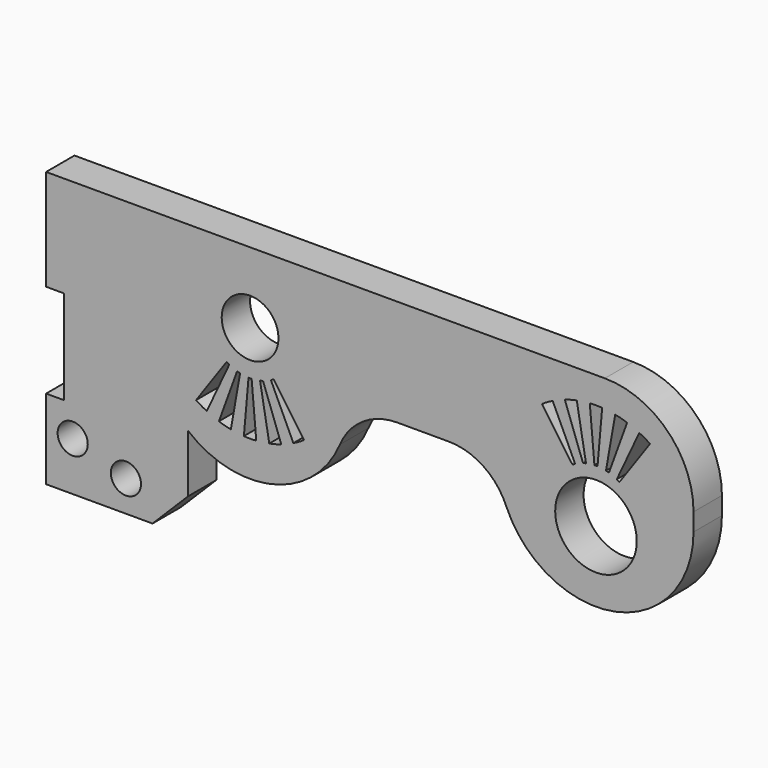
from build123d import *

# Parameters (mm, degrees)
BOX001027008_W            = 15
BOX001027008_H            = 24
BOX001027008_DEPTH        = 10.6
CYLINDER055_R             = 1.7
CYLINDER055_DEPTH         = 20
CYLINDER055_ROLL_ANGLE    = 90
CYLINDER054_R             = 1.7
CYLINDER054_DEPTH         = 20
CYLINDER054_ROLL_ANGLE    = 90
BOX001021_W               = 16
BOX001021_H               = 4
BOX001021_DEPTH           = 19
CHAMFER002_SIZE           = 4
BOX001023_W               = 14
BOX001023_H               = 9
BOX001023_DEPTH           = 22
BOX001015_W               = 13
BOX001015_H               = 10
BOX001015_DEPTH           = 2
BOX001015_PLACEMENT_ANGLE = 80
BOX001014_W               = 2
BOX001014_H               = 10
BOX001014_DEPTH           = 13
CYLINDER040_R             = 2
CYLINDER040_DEPTH         = 13
CYLINDER040_ROLL_ANGLE    = 90
CYLINDER041_R             = 8
CYLINDER041_DEPTH         = 8
CYLINDER041_ROLL_ANGLE    = 90
COMMON006_PLACEMENT_ANGLE = 25
COMMON005_PITCH_ANGLE     = -20
COMMON004_PITCH_ANGLE     = 10
COMMON007_PITCH_ANGLE     = -35
COMMON003_PITCH_ANGLE     = -5
FUSION061_PLACEMENT_ANGLE = 180
CYLINDER042_R             = 4.6
CYLINDER042_DEPTH         = 10
CYLINDER042_ROLL_ANGLE    = 90
CYLINDER039_R             = 3.2
CYLINDER039_DEPTH         = 10
CYLINDER039_ROLL_ANGLE    = 90
CYLINDER037_R             = 11
CYLINDER037_DEPTH         = 4
CYLINDER037_ROLL_ANGLE    = 90
CYLINDER038_R             = 11
CYLINDER038_DEPTH         = 4
CYLINDER038_ROLL_ANGLE    = 90
BOX001013_W               = 80
BOX001013_H               = 4
BOX001013_DEPTH           = 12
FILLET_R                  = 7
FILLET001_R               = 7
FILLET002_R               = 10
FILLET002_PLACEMENT_ANGLE = 180


with BuildPart() as cube028:
    # Box001027008 → Box001027008 (new body)
    with BuildSketch(Plane(origin=(-11, -13, -38), x_dir=(1, 0, 0), z_dir=(0, 0, 1))):
        with Locations((7.5, 12)):
            Rectangle(BOX001027008_W, BOX001027008_H)
    extrude(amount=BOX001027008_DEPTH)


with BuildPart() as cylinder055:
    # Cylinder055 → Cylinder055 (new body)
    with BuildSketch(Plane.XY):
        Circle(CYLINDER055_R)
    extrude(amount=CYLINDER055_DEPTH)


with BuildPart() as cylinder055_1:
    # Cylinder055 roll: moved
    add(cylinder055.part.rotate(Axis((0, 0, 0), (1, 0, 0)), CYLINDER055_ROLL_ANGLE))


with BuildPart() as cylinder055_2:
    # Cylinder055 placement: moved
    add(cylinder055_1.part.moved(Location((5, 10, -41.5))))


with BuildPart() as fusion075:
    # Cylinder054 → Cylinder054 (new body)
    with BuildSketch(Plane.XY):
        Circle(CYLINDER054_R)
    extrude(amount=CYLINDER054_DEPTH)


with BuildPart() as fusion075_1:
    # Cylinder054 roll: moved
    add(fusion075.part.rotate(Axis((0, 0, 0), (1, 0, 0)), CYLINDER054_ROLL_ANGLE))


with BuildPart() as fusion075_2:
    # Cylinder054 placement: moved
    add(fusion075_1.part.moved(Location((11, 10, -43.5))))

    # Fusion075: union Cylinder055
    add(cylinder055_2.part)


with BuildPart() as cut031:
    # Box001021 → Box001021 (new body)
    with BuildSketch(Plane(origin=(2, -2, -47), x_dir=(1, 0, 0), z_dir=(0, 0, 1))):
        with Locations((8, 2)):
            Rectangle(BOX001021_W, BOX001021_H)
    extrude(amount=BOX001021_DEPTH)

    # Chamfer002
    chamfer002_edges = [cut031.edges().sort_by_distance(p)[0] for p in [
        (18, 0, -47),
    ]]
    chamfer(chamfer002_edges, length=CHAMFER002_SIZE)

    # Cut031: cut Fusion075
    add(fusion075_2.part, mode=Mode.SUBTRACT)


with BuildPart() as cube021:
    # Box001023 → Box001023 (new body)
    with BuildSketch(Plane(origin=(-12, -4, -33), x_dir=(1, 0, 0), z_dir=(0, 0, 1))):
        with Locations((7, 4.5)):
            Rectangle(BOX001023_W, BOX001023_H)
    extrude(amount=BOX001023_DEPTH)


with BuildPart() as cube013:
    # Box001015 → Box001015 (new body)
    with BuildSketch(Plane.XY):
        with Locations((6.5, 5)):
            Rectangle(BOX001015_W, BOX001015_H)
    extrude(amount=BOX001015_DEPTH)


with BuildPart() as cube013_1:
    # Box001015 placement: moved
    add(cube013.part.moved(Location((0, -5, 0))).rotate(Axis((0, -5, 0), (0, -1, 0)), BOX001015_PLACEMENT_ANGLE))


with BuildPart() as common002:
    # Box001014 → Box001014 (new body)
    with BuildSketch(Plane(origin=(0, -5, 0), x_dir=(1, 0, 0), z_dir=(0, 0, 1))):
        with Locations((1, 5)):
            Rectangle(BOX001014_W, BOX001014_H)
    extrude(amount=BOX001014_DEPTH)

    # Common002: intersect Cube013
    add(cube013_1.part, mode=Mode.INTERSECT)


with BuildPart() as cylinder040:
    # Cylinder040 → Cylinder040 (new body)
    with BuildSketch(Plane.XY):
        Circle(CYLINDER040_R)
    extrude(amount=CYLINDER040_DEPTH)


with BuildPart() as cylinder040_1:
    # Cylinder040 roll: moved
    add(cylinder040.part.rotate(Axis((0, 0, 0), (1, 0, 0)), CYLINDER040_ROLL_ANGLE))


with BuildPart() as cylinder040_2:
    # Cylinder040 placement: moved
    add(cylinder040_1.part.moved(Location((0, 7, 0))))


with BuildPart() as cut010:
    # Cylinder041 → Cylinder041 (new body)
    with BuildSketch(Plane.XY):
        Circle(CYLINDER041_R)
    extrude(amount=CYLINDER041_DEPTH)


with BuildPart() as cut010_1:
    # Cylinder041 roll: moved
    add(cut010.part.rotate(Axis((0, 0, 0), (1, 0, 0)), CYLINDER041_ROLL_ANGLE))


with BuildPart() as cut010_2:
    # Cylinder041 placement: moved
    add(cut010_1.part.moved(Location((0, 4, 0))))

    # Cut010: cut Cylinder040
    add(cylinder040_2.part, mode=Mode.SUBTRACT)


with BuildPart() as common006:
    # Common006 base: copy of Cut010
    add(cut010_2.part)

    # Common006: intersect Common002
    add(common002.part, mode=Mode.INTERSECT)


with BuildPart() as common006_1:
    # Common006 placement: moved
    add(common006.part.moved(Location((51.5, 0, 10.598076))).rotate(Axis((51.5, 0, 10.598076), (0, 1, 0)), COMMON006_PLACEMENT_ANGLE))


with BuildPart() as common005:
    # Common005 base: copy of Cut010
    add(cut010_2.part)

    # Common005: intersect Common002
    add(common002.part, mode=Mode.INTERSECT)


with BuildPart() as common005_1:
    # Common005 pitch: moved
    add(common005.part.rotate(Axis((0, 0, 0), (0, 1, 0)), COMMON005_PITCH_ANGLE))


with BuildPart() as common005_2:
    # Common005 placement: moved
    add(common005_1.part.moved(Location((49.223543, 0, 10.897777))))


with BuildPart() as common004:
    # Common004 base: copy of Cut010
    add(cut010_2.part)

    # Common004: intersect Common002
    add(common002.part, mode=Mode.INTERSECT)


with BuildPart() as common004_1:
    # Common004 pitch: moved
    add(common004.part.rotate(Axis((0, 0, 0), (0, 1, 0)), COMMON004_PITCH_ANGLE))


with BuildPart() as common004_2:
    # Common004 placement: moved
    add(common004_1.part.moved(Location((50.776457, 0, 10.897777))))


with BuildPart() as common007:
    # Common007 base: copy of Cut010
    add(cut010_2.part)

    # Common007: intersect Common002
    add(common002.part, mode=Mode.INTERSECT)


with BuildPart() as common007_1:
    # Common007 pitch: moved
    add(common007.part.rotate(Axis((0, 0, 0), (0, 1, 0)), COMMON007_PITCH_ANGLE))


with BuildPart() as common007_2:
    # Common007 placement: moved
    add(common007_1.part.moved(Location((48.5, 0, 10.598076))))


with BuildPart() as common003:
    # Common003 base: copy of Cut010
    add(cut010_2.part)

    # Common003: intersect Common002
    add(common002.part, mode=Mode.INTERSECT)


with BuildPart() as common003_1:
    # Common003 pitch: moved
    add(common003.part.rotate(Axis((0, 0, 0), (0, 1, 0)), COMMON003_PITCH_ANGLE))


with BuildPart() as common003_2:
    # Common003 placement: moved
    add(common003_1.part.moved(Location((50, 0, 11))))


with BuildPart() as strength_slots001:
    # Fusion061 base: copy of Common003
    add(common003_2.part)

    # Fusion061: union Common006, Common005, Common004, Common007
    add(common006_1.part)
    add(common005_2.part)
    add(common004_2.part)
    add(common007_2.part)


with BuildPart() as strength_slots001_1:
    # Fusion061 placement: moved
    add(strength_slots001.part.moved(Location((61, 0, 22))).rotate(Axis((61, 0, 22), (0, 1, 0)), FUSION061_PLACEMENT_ANGLE))


with BuildPart() as cylinder042:
    # Cylinder042 → Cylinder042 (new body)
    with BuildSketch(Plane.XY):
        Circle(CYLINDER042_R)
    extrude(amount=CYLINDER042_DEPTH)


with BuildPart() as cylinder042_1:
    # Cylinder042 roll: moved
    add(cylinder042.part.rotate(Axis((0, 0, 0), (1, 0, 0)), CYLINDER042_ROLL_ANGLE))


with BuildPart() as cylinder042_2:
    # Cylinder042 placement: moved
    add(cylinder042_1.part.moved(Location((11, 5, 15))))


with BuildPart() as strength_slots:
    # Fusion060 base: copy of Common003
    add(common003_2.part)

    # Fusion060: union Common006, Common005, Common004, Common007
    add(common006_1.part)
    add(common005_2.part)
    add(common004_2.part)
    add(common007_2.part)


with BuildPart() as cylinder039:
    # Cylinder039 → Cylinder039 (new body)
    with BuildSketch(Plane.XY):
        Circle(CYLINDER039_R)
    extrude(amount=CYLINDER039_DEPTH)


with BuildPart() as cylinder039_1:
    # Cylinder039 roll: moved
    add(cylinder039.part.rotate(Axis((0, 0, 0), (1, 0, 0)), CYLINDER039_ROLL_ANGLE))


with BuildPart() as cylinder039_2:
    # Cylinder039 placement: moved
    add(cylinder039_1.part.moved(Location((50, 5, 8))))


with BuildPart() as cylinder037:
    # Cylinder037 → Cylinder037 (new body)
    with BuildSketch(Plane.XY):
        Circle(CYLINDER037_R)
    extrude(amount=CYLINDER037_DEPTH)


with BuildPart() as cylinder037_1:
    # Cylinder037 roll: moved
    add(cylinder037.part.rotate(Axis((0, 0, 0), (1, 0, 0)), CYLINDER037_ROLL_ANGLE))


with BuildPart() as cylinder037_2:
    # Cylinder037 placement: moved
    add(cylinder037_1.part.moved(Location((11, 2, 12))))


with BuildPart() as cylinder038:
    # Cylinder038 → Cylinder038 (new body)
    with BuildSketch(Plane.XY):
        Circle(CYLINDER038_R)
    extrude(amount=CYLINDER038_DEPTH)


with BuildPart() as cylinder038_1:
    # Cylinder038 roll: moved
    add(cylinder038.part.rotate(Axis((0, 0, 0), (1, 0, 0)), CYLINDER038_ROLL_ANGLE))


with BuildPart() as cylinder038_2:
    # Cylinder038 placement: moved
    add(cylinder038_1.part.moved(Location((50, 2, 12))))


with BuildPart() as cut_lever_x:
    # Box001013 → Box001013 (new body)
    with BuildSketch(Plane(origin=(0, -2, 0), x_dir=(1, 0, 0), z_dir=(0, 0, 1))):
        with Locations((40, 2)):
            Rectangle(BOX001013_W, BOX001013_H)
    extrude(amount=BOX001013_DEPTH)

    # Fusion059: union Cylinder037, Cylinder038
    add(cylinder037_2.part)
    add(cylinder038_2.part)

    # Fillet
    fillet_edges = [cut_lever_x.edges().sort_by_distance(p)[0] for p in [
        (22, 0, 12),
    ]]
    fillet(fillet_edges, radius=FILLET_R)

    # Fillet001
    fillet001_edges = [cut_lever_x.edges().sort_by_distance(p)[0] for p in [
        (39, 0, 12),
        (61, 0, 12),
    ]]
    fillet(fillet001_edges, radius=FILLET001_R)

    # Cut009: cut Cylinder039
    add(cylinder039_2.part, mode=Mode.SUBTRACT)

    # Cut011: cut strength-slots
    add(strength_slots.part, mode=Mode.SUBTRACT)

    # Cut012: cut Cylinder042
    add(cylinder042_2.part, mode=Mode.SUBTRACT)

    # Cut013: cut strength-slots001
    add(strength_slots001_1.part, mode=Mode.SUBTRACT)

    # Fillet002
    fillet002_edges = [cut_lever_x.edges().sort_by_distance(p)[0] for p in [
        (0, 0, 0),
    ]]
    fillet(fillet002_edges, radius=FILLET002_R)


with BuildPart() as cut_lever_x_1:
    # Fillet002 placement: moved
    add(cut_lever_x.part.moved(Location((75, 0, -16))).rotate(Axis((75, 0, -16), (0, 1, 0)), FILLET002_PLACEMENT_ANGLE))

    # Cut021: cut Cube021
    add(cube021.part, mode=Mode.SUBTRACT)

    # Fusion076: union Cut031
    add(cut031.part)

    # Cut039: cut Cube028
    add(cube028.part, mode=Mode.SUBTRACT)


solid = cut_lever_x_1.part
